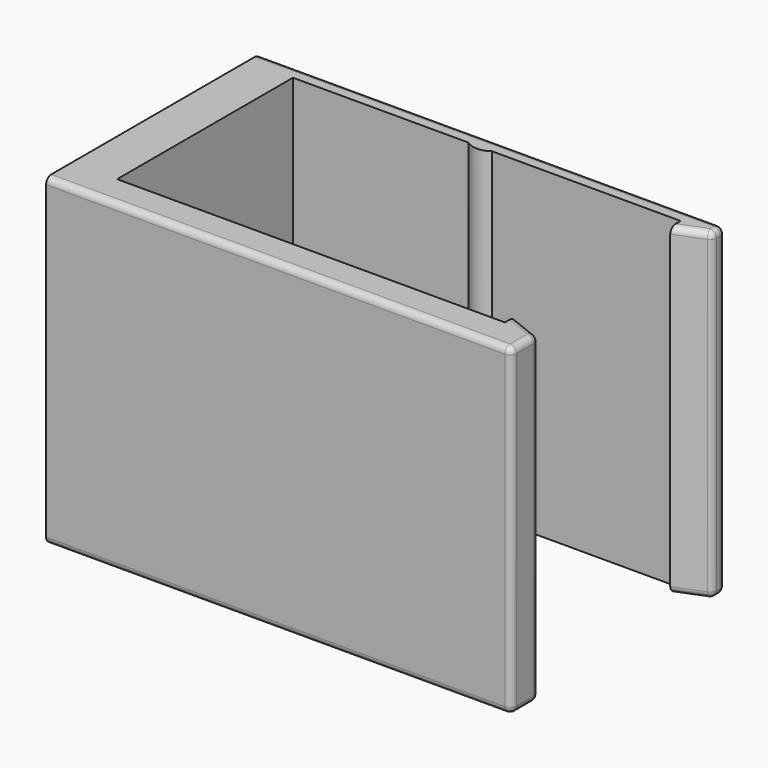
from build123d import *

# Parameters (mm, degrees)
PAD005_DEPTH    = 25
SKETCH012_R     = 2.2
POCKET005_DEPTH = 72.001
SKETCH013_R     = 4.4
POCKET006_DEPTH = 68.001
FILLET003_R     = 1


with BuildPart() as part:
    # Sketch011 → Pad005 (new body, symmetric)
    with BuildSketch(Plane.XY):
        with BuildLine():
            Line((7, 18.3), (34.2, 18.3))
            ThreePointArc((34.2, 18.3), (36, 17.7), (37.8, 18.3))
            Line((37.8, 18.3), (67, 18.3))
            Line((67, 18.3), (67, 16.3))
            Line((67, 16.3), (72, 18.3))
            Line((72, 20.7), (72, 18.3))
            Line((0, 20.7), (72, 20.7))
            Line((0, -20.7), (0, 20.7))
            Line((72, -20.7), (0, -20.7))
            Line((72, -15.7), (72, -20.7))
            Line((67, -13.7), (72, -15.7))
            Line((67, -15.7), (67, -13.7))
            Line((67, -15.7), (7, -15.7))
            Line((7, -15.7), (7, 18.3))
        make_face()
    extrude(amount=PAD005_DEPTH, both=True)

    # Sketch012 → Pocket005 (cut, through all)
    with BuildSketch(Plane.YZ):
        Circle(SKETCH012_R)
    extrude(amount=POCKET005_DEPTH, mode=Mode.SUBTRACT)

    # Sketch013 → Pocket006 (cut, through all)
    with BuildSketch(Plane.YZ.offset(4)):
        Circle(SKETCH013_R)
    extrude(amount=POCKET006_DEPTH, mode=Mode.SUBTRACT)

    # Fillet003
    fillet003_edges = [part.edges().sort_by_distance(p)[0] for p in [
        (36, 20.7, -25),
        (72, 20.7, 0),
        (36, 20.7, 25),
        (36, -20.7, 25),
        (72, -20.7, 0),
        (36, -20.7, -25),
        (72, -15.7, 0),
        (72, 18.3, 0),
        (72, 19.5, -25),
        (72, -18.2, -25),
        (69.5, -14.7, -25),
        (72, -18.2, 25),
        (69.5, 17.3, -25),
        (69.5, 17.3, 25),
        (72, 19.5, 25),
        (69.5, -14.7, 25),
    ]]
    fillet(fillet003_edges, radius=FILLET003_R)


solid = part.part
